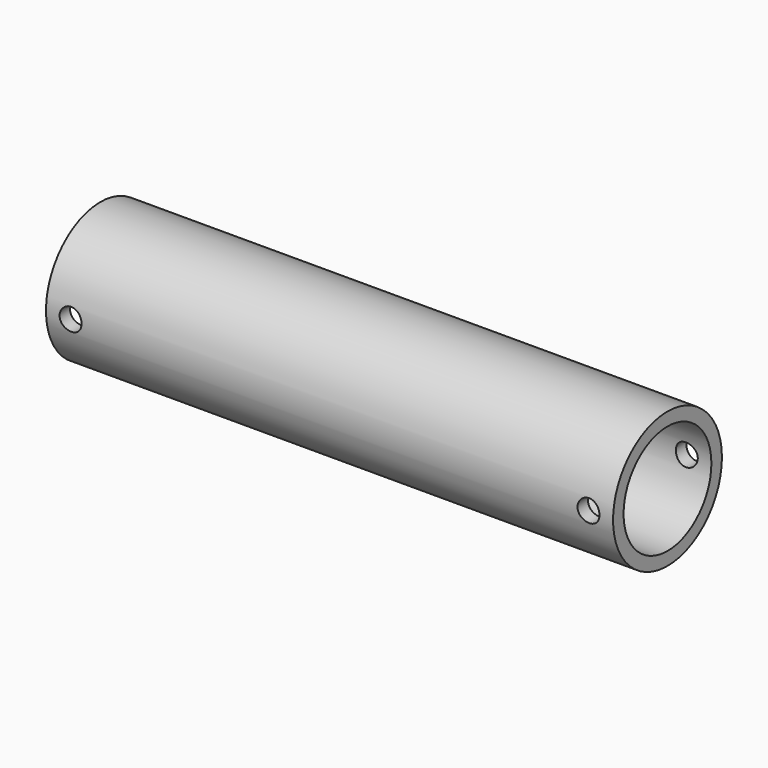
from build123d import *

# Parameters (mm, degrees)
F0_R     = 7.75
F0_R_2   = 6.25
F1_DEPTH = 32.3
F2_R     = 1.25
F3_DEPTH = 12.5


with BuildPart() as f1:
    # F0 (on Right) → F1 (new body, symmetric)
    with BuildSketch(Plane.YZ):
        Circle(F0_R)
        Circle(F0_R_2, mode=Mode.SUBTRACT)
    extrude(amount=F1_DEPTH, both=True)

    # F2 (on Front) → F3 (cut, symmetric)
    with BuildSketch(Plane.XZ):
        with Locations((-29.5, 0)):
            Circle(F2_R)
        with Locations((29.5, 0)):
            Circle(F2_R)
    extrude(amount=F3_DEPTH, both=True, mode=Mode.SUBTRACT)


solid = f1.part
